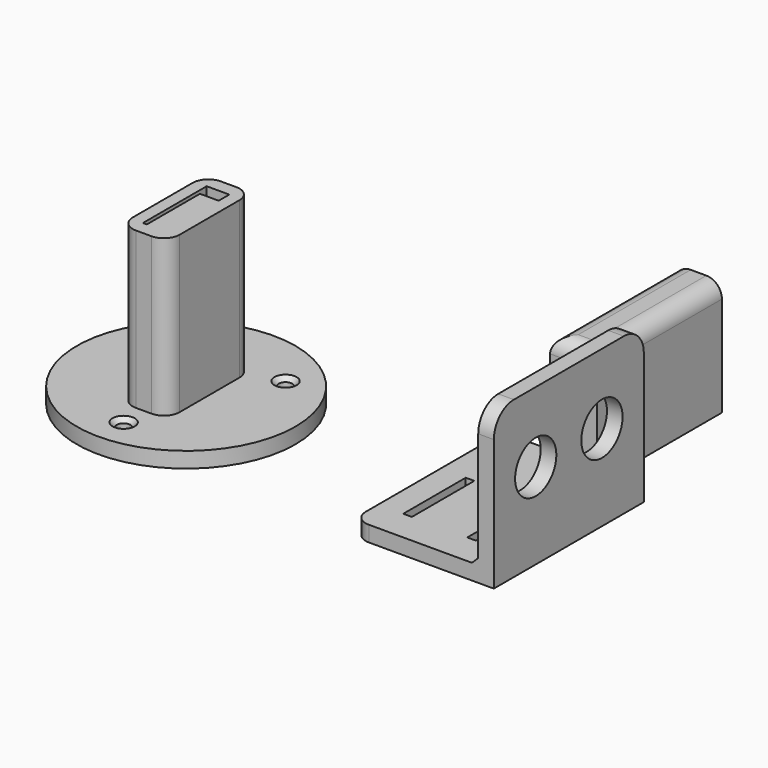
from build123d import *

# Parameters (mm, degrees)
SKETCH014_R         = 35
PAD005_DEPTH        = 5
PAD006_DEPTH        = 50
POCKET002_DEPTH     = 50
HOLE003_D           = 4.3
HOLE003_DEPTH       = 25
HOLE003_CSINK_D     = 7.1
HOLE003_CSINK_ANGLE = 90
PAD007_DEPTH        = 5
SKETCH019_W         = 5
SKETCH019_H         = 60
PAD008_DEPTH        = 45
SKETCH020_R         = 8.25
POCKET003_DEPTH     = 5
SKETCH021_W         = 2.75
SKETCH021_H         = 25
POCKET004_DEPTH     = 5.001
SKETCH022_W         = 15
SKETCH022_H         = 50
PAD009_DEPTH        = 32
FILLET002_R         = 5
POCKET005_DEPTH     = 45
FILLET003_R         = 8
CHAMFER001_SIZE     = 2


with BuildPart() as channelwallmount:
    # Sketch014 → Pad005 (new body)
    with BuildSketch(Plane.XY):
        Circle(SKETCH014_R)
    extrude(amount=PAD005_DEPTH)

    # Sketch015 (on DatumPlane) → Pad006 (join)
    with BuildSketch(Plane.XY.offset(5)):
        with BuildLine():
            ThreePointArc((-2.5, 17), (-6.035534, 15.535534), (-7.5, 12))
            Line((-7.5, -12), (-7.5, 12))
            ThreePointArc((-7.5, -12), (-6.035534, -15.535534), (-2.5, -17))
            Line((2.5, -17), (-2.5, -17))
            ThreePointArc((2.5, -17), (6.035534, -15.535534), (7.5, -12))
            Line((7.5, 12), (7.5, -12))
            ThreePointArc((7.5, 12), (6.035534, 15.535534), (2.5, 17))
            Line((-2.5, 17), (2.5, 17))
        make_face()
    extrude(amount=PAD006_DEPTH)

    # Sketch016 (on DatumPlane) → Pocket002 (cut)
    with BuildSketch(Plane.XY.offset(55)):
        Polygon((3.625, 12.75), (3.625, 8.5), (-2.375, 8.5), (-2.375, -12.75), (-3.625, -12.75), (-3.625, 12.75), align=None)
    extrude(amount=-POCKET002_DEPTH, mode=Mode.SUBTRACT)

    # Hole003
    with Locations(Plane.XY.offset(5)):
        with Locations((-17.67767, 17.67767), (17.67767, 17.67767), (0, -25)):
            CounterSinkHole(HOLE003_D / 2, HOLE003_CSINK_D / 2, depth=HOLE003_DEPTH, counter_sink_angle=HOLE003_CSINK_ANGLE)


with BuildPart() as channelsensorattachment:
    # Sketch018 → Pad007 (new body)
    with BuildSketch(Plane.XY):
        with BuildLine():
            Line((22.5, 30), (22.5, -30))
            Line((22.5, -30), (-17.5, -30))
            ThreePointArc((-22.5, -25), (-21.035534, -28.535534), (-17.5, -30))
            Line((-22.5, 25), (-22.5, -25))
            ThreePointArc((-17.5, 30), (-21.035534, 28.535534), (-22.5, 25))
            Line((-17.5, 30), (-7.5, 30))
            Line((-7.5, 30), (-7.5, 80))
            Line((-7.5, 80), (7.5, 80))
            Line((7.5, 80), (7.5, 30))
            Line((7.5, 30), (22.5, 30))
        make_face()
    extrude(amount=PAD007_DEPTH)

    # Sketch019 (on DatumPlane) → Pad008 (join)
    with BuildSketch(Plane.XY.offset(5)):
        with Locations((20, 0)):
            Rectangle(SKETCH019_W, SKETCH019_H)
    extrude(amount=PAD008_DEPTH)

    # Sketch020 (on DatumPlane) → Pocket003 (cut)
    with BuildSketch(Plane.YZ.offset(22.5)):
        with Locations((-13.25, 27.5)):
            Circle(SKETCH020_R)
        with Locations((13.25, 27.5)):
            Circle(SKETCH020_R)
    extrude(amount=-POCKET003_DEPTH, mode=Mode.SUBTRACT)

    # Sketch021 (on DatumPlane) → Pocket004 (cut, through all)
    with BuildSketch(Plane.XY.offset(5)):
        with Locations((-13.125, -7.5)):
            Rectangle(SKETCH021_W, SKETCH021_H)
        with Locations((7.375, -7.5)):
            Rectangle(SKETCH021_W, SKETCH021_H)
    extrude(amount=-POCKET004_DEPTH, mode=Mode.SUBTRACT)

    # Sketch022 (on DatumPlane) → Pad009 (join)
    with BuildSketch(Plane.XY.offset(5)):
        with Locations((0, 55)):
            Rectangle(SKETCH022_W, SKETCH022_H)
    extrude(amount=PAD009_DEPTH)

    # Fillet002
    fillet002_edges = [channelsensorattachment.edges().sort_by_distance(p)[0] for p in [
        (7.5, 55, 37),
        (0, 30, 37),
        (-7.5, 55, 37),
    ]]
    fillet(fillet002_edges, radius=FILLET002_R)

    # Sketch023 (on DatumPlane) → Pocket005 (cut)
    with BuildSketch(Plane.XZ.offset(-80)):
        Polygon((3.625, 28.25), (-2.375, 28.25), (-2.375, 7), (-3.625, 7), (-3.625, 32.5), (3.625, 32.5), align=None)
    extrude(amount=POCKET005_DEPTH, mode=Mode.SUBTRACT)

    # Fillet003
    fillet003_edges = [channelsensorattachment.edges().sort_by_distance(p)[0] for p in [
        (20, -30, 50),
        (20, 30, 50),
    ]]
    fillet(fillet003_edges, radius=FILLET003_R)

    # Chamfer001
    chamfer001_edges = [channelsensorattachment.edges().sort_by_distance(p)[0] for p in [
        (17.5, 0, 5),
    ]]
    chamfer(chamfer001_edges, length=CHAMFER001_SIZE)


with BuildPart() as channelsensorattachment_1:
    # Body003 placement: moved
    add(channelsensorattachment.part.moved(Location((100, 0, 0))))


solid = Compound([channelwallmount.part, channelsensorattachment_1.part])
